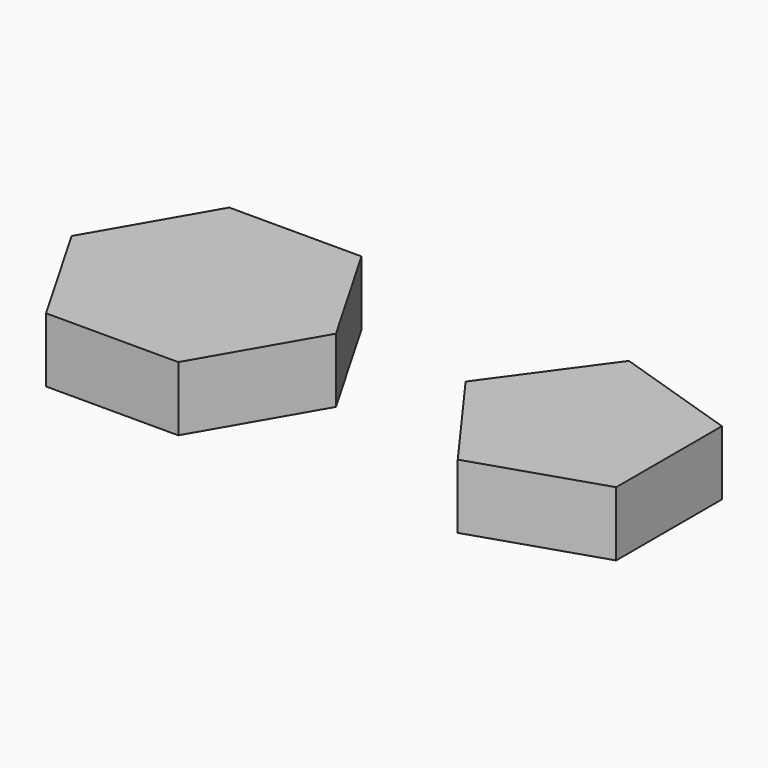
from build123d import *

# Parameters (mm, degrees)
F1_DEPTH = 10


with BuildPart() as f1:
    # F0 (on Top) → F1 (new body)
    with BuildSketch(Plane.XY):
        Polygon((-38.922301, 17.753521), (-49.172301, 0), (-38.922301, -17.753521), (-18.422301, -17.753521), (-8.172301, 0), (-18.422301, 17.753521), align=None)
        Polygon((23.978604, 16.584848), (11.929006, 0), (23.978604, -16.584848), (43.475263, -10.25), (43.475263, 10.25), align=None)
    extrude(amount=F1_DEPTH)


solid = f1.part
